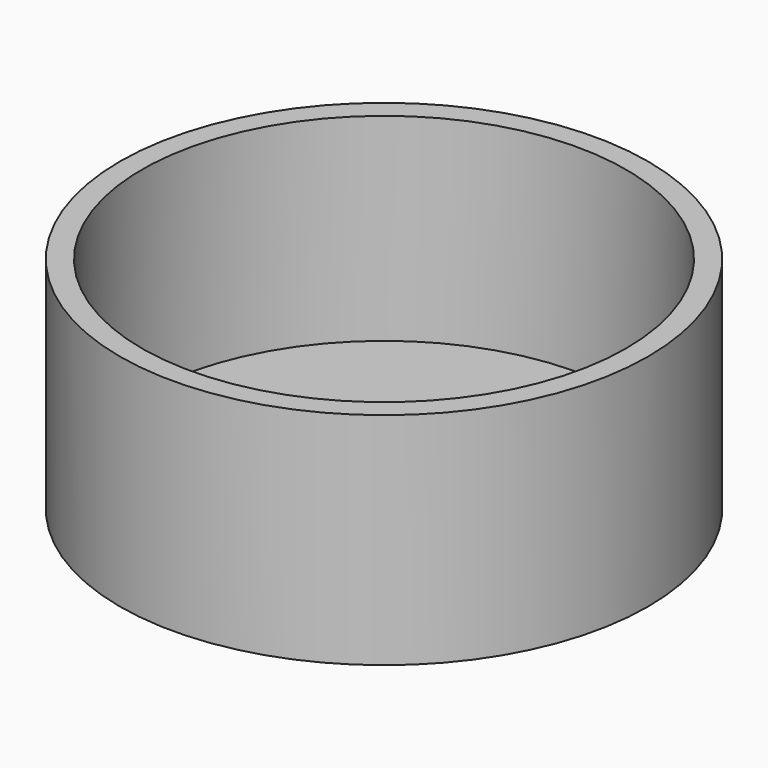
from build123d import *

# Parameters (mm, degrees)
F0_W     = 200
F0_H     = 150
F1_DEPTH = 100
F2_T     = -2.5
F3_R     = 5
F5_R     = 30
F6_DEPTH = 25
F7_T     = -2.5


with BuildPart() as f1:
    # F0 (on Top) → F1 (new body)
    with BuildSketch(Plane.XY):
        Rectangle(F0_W, F0_H)
    extrude(amount=F1_DEPTH)

    # F2
    f2_openings = [f1.faces().sort_by_distance(p)[0] for p in [
        (0, 0, 100),
    ]]
    offset(amount=F2_T, openings=f2_openings)

    # F3
    f3_edges = [f1.edges().sort_by_distance(p)[0] for p in [
        (-100, -75, 50),
        (-100, 75, 50),
        (100, 75, 50),
        (100, -75, 50),
    ]]
    fillet(f3_edges, radius=F3_R)


with BuildPart() as f6:
    # F5 (on Top) → F6 (new body)
    with BuildSketch(Plane.XY):
        Circle(F5_R)
    extrude(amount=F6_DEPTH)

    # F7
    f7_openings = [f6.faces().sort_by_distance(p)[0] for p in [
        (0, 0, 25),
    ]]
    offset(amount=F7_T, openings=f7_openings)


solid = f6.part
